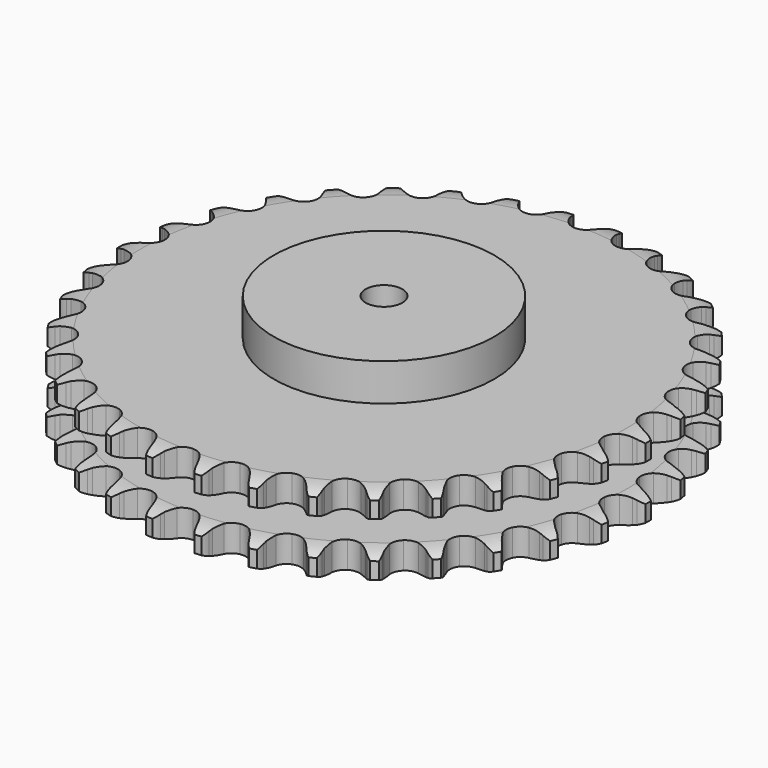
from build123d import *

# Parameters (mm, degrees)
PAD_DEPTH         = 54.6
SKETCH001_R       = 75
PAD001_DEPTH      = 80
SKETCH002_R       = 12.5
POCKET_DEPTH      = 0.001
POCKET_DEPTH_BACK = 80.001


with BuildPart() as part:
    # Sprocket → Pad (new body)
    with BuildSketch(Plane.XY):
        with BuildLine():
            ThreePointArc((-16.836108, 181.690536), (-13.971378, 178.673782), (-12.010947, 175.004424))
            Line((-12.010947, 175.004424), (-11.081591, 172.507029))
            ThreePointArc((-11.081591, 172.507029), (-9.612188, 169.282721), (-7.699154, 166.30017))
            ThreePointArc((-7.699154, 166.30017), (-4.305936, 163.460335), (0, 162.441754))
            ThreePointArc((0, 162.441754), (4.305936, 163.460335), (7.699154, 166.30017))
            ThreePointArc((7.699154, 166.30017), (9.612188, 169.282721), (11.081591, 172.507029))
            Line((11.081591, 172.507029), (12.010947, 175.004424))
            ThreePointArc((12.010947, 175.004424), (13.971378, 178.673782), (16.836108, 181.690536))
            ThreePointArc((16.836108, 181.690536), (19.097732, 178.198755), (20.350541, 174.231647))
            Line((20.350541, 174.231647), (20.805178, 171.606006))
            ThreePointArc((20.805178, 171.606006), (21.657096, 168.166596), (22.989515, 164.883309))
            ThreePointArc((22.989515, 164.883309), (25.803138, 161.468325), (29.848594, 159.675875))
            ThreePointArc((29.848594, 159.675875), (34.268377, 159.885898), (38.125637, 162.053878))
            Line((38.125637, 162.053878), (42.590989, 167.533533))
            ThreePointArc((42.590989, 167.533533), (43.246566, 168.693993), (43.963417, 169.817636))
            ThreePointArc((43.963417, 169.817636), (46.56471, 173.064287), (49.934989, 175.503282))
            ThreePointArc((49.934989, 175.503282), (51.516493, 171.655384), (52.019015, 167.52562))
            Line((52.019015, 167.52562), (51.983451, 164.861147))
            ThreePointArc((51.983451, 164.861147), (52.188873, 161.323759), (52.895303, 157.851545))
            ThreePointArc((52.895303, 157.851545), (55.033518, 153.977706), (58.68073, 151.472425))
            ThreePointArc((58.68073, 151.472425), (63.063849, 150.866739), (67.253798, 152.289035))
            Line((67.253798, 152.289035), (72.650002, 156.854882))
            ThreePointArc((72.650002, 156.854882), (73.50765, 157.875122), (74.418765, 158.847911))
            ThreePointArc((74.418765, 158.847911), (77.572337, 161.561296), (81.333395, 163.339475))
            ThreePointArc((81.333395, 163.339475), (82.18092, 159.266494), (81.916045, 155.114709))
            Line((81.916045, 155.114709), (81.39149, 152.502138))
            ThreePointArc((81.39149, 152.502138), (80.943422, 148.987235), (80.999805, 145.444336))
            ThreePointArc((80.999805, 145.444336), (82.389797, 141.243561), (85.514564, 138.110763))
            ThreePointArc((85.514564, 138.110763), (89.711758, 136.709994), (94.091711, 137.338172))
            Line((94.091711, 137.338172), (100.235007, 140.834727))
            ThreePointArc((100.235007, 140.834727), (101.26552, 141.680002), (102.339871, 142.468812))
            ThreePointArc((102.339871, 142.468812), (105.938331, 144.556528), (109.962089, 145.613338))
            ThreePointArc((109.962089, 145.613338), (110.046776, 141.453975), (109.023521, 137.421553))
            Line((109.023521, 137.421553), (108.02784, 134.949852))
            ThreePointArc((108.02784, 134.949852), (106.941539, 131.577129), (106.345957, 128.084195))
            ThreePointArc((106.345957, 128.084195), (106.94039, 123.699535), (109.436302, 120.045905))
            ThreePointArc((109.436302, 120.045905), (113.30464, 117.897755), (117.725443, 117.710422))
            Line((117.725443, 117.710422), (124.406628, 120.018614))
            ThreePointArc((124.406628, 120.018614), (125.574915, 120.66014), (126.775915, 121.238107))
            ThreePointArc((126.775915, 121.238107), (130.696722, 122.629062), (134.846156, 122.928514))
            ThreePointArc((134.846156, 122.928514), (134.16512, 118.82441), (132.418333, 115.04867))
            Line((132.418333, 115.04867), (130.985431, 112.802011))
            ThreePointArc((130.985431, 112.802011), (129.29789, 109.686323), (128.070624, 106.3623))
            ThreePointArc((128.070624, 106.3623), (127.849257, 101.94307), (129.631318, 97.893027))
            ThreePointArc((129.631318, 97.893027), (133.039069, 95.070648), (137.350177, 94.074185))
            Line((137.350177, 94.074185), (144.341732, 95.115411))
            ThreePointArc((144.341732, 95.115411), (145.608006, 95.531342), (146.894758, 95.878785))
            ThreePointArc((146.894758, 95.878785), (151.004393, 96.525609), (155.138199, 96.057506))
            ThreePointArc((155.138199, 96.057506), (153.714632, 92.148423), (151.303797, 88.757943))
            Line((151.303797, 88.757943), (149.48247, 86.812833))
            ThreePointArc((149.48247, 86.812833), (147.251156, 84.06028), (145.433999, 81.018364))
            ThreePointArc((145.433999, 81.018364), (144.40437, 76.715057), (145.411895, 72.40652))
            ThreePointArc((145.411895, 72.40652), (148.243012, 69.006025), (152.297615, 67.234364))
            Line((152.297615, 67.234364), (159.36145, 66.973167))
            ThreePointArc((159.36145, 66.973167), (160.682591, 67.149339), (162.011276, 67.254425))
            ThreePointArc((162.011276, 67.254425), (166.16979, 67.135093), (170.147197, 65.915375))
            ThreePointArc((170.147197, 65.915375), (168.029576, 62.334431), (165.036791, 59.444671))
            Line((165.036791, 59.444671), (162.889063, 57.867347))
            ThreePointArc((162.889063, 57.867347), (160.189961, 55.571665), (157.844794, 52.915445))
            ThreePointArc((157.844794, 52.915445), (156.041966, 48.874604), (156.240645, 44.454296))
            ThreePointArc((156.240645, 44.454296), (158.398717, 40.591484), (162.058741, 38.104958))
            Line((162.058741, 38.104958), (168.954306, 36.550232))
            ThreePointArc((168.954306, 36.550232), (170.285323, 36.480645), (171.610695, 36.339797))
            ThreePointArc((171.610695, 36.339797), (175.676475, 35.458372), (179.362036, 33.528575))
            ThreePointArc((179.362036, 33.528575), (176.622475, 30.397716), (173.149656, 28.107082))
            Line((173.149656, 28.107082), (170.748665, 26.951259))
            ThreePointArc((170.748665, 26.951259), (167.67369, 25.190623), (164.880374, 23.010554))
            ThreePointArc((164.880374, 23.010554), (162.36574, 19.369785), (161.748806, 14.988234))
            ThreePointArc((161.748806, 14.988234), (163.160343, 10.794649), (166.301151, 7.677933))
            Line((166.301151, 7.677933), (172.793625, 4.882622))
            ThreePointArc((172.793625, 4.882622), (174.089193, 4.569647), (175.366117, 4.187661))
            ThreePointArc((175.366117, 4.187661), (179.200707, 2.574158), (182.468916, 0))
            ThreePointArc((182.468916, 0), (179.200707, -2.574158), (175.366117, -4.187661))
            Line((175.366117, -4.187661), (172.793625, -4.882622))
            ThreePointArc((172.793625, -4.882622), (169.447491, -6.048254), (166.301151, -7.677933))
            ThreePointArc((166.301151, -7.677933), (163.160343, -10.794649), (161.748806, -14.988234))
            ThreePointArc((161.748806, -14.988234), (162.36574, -19.369785), (164.880374, -23.010554))
            Line((164.880374, -23.010554), (170.748665, -26.951259))
            ThreePointArc((170.748665, -26.951259), (171.964664, -27.496965), (173.149656, -28.107082))
            ThreePointArc((173.149656, -28.107082), (176.622475, -30.397716), (179.362036, -33.528575))
            ThreePointArc((179.362036, -33.528575), (175.676475, -35.458372), (171.610695, -36.339797))
            Line((171.610695, -36.339797), (168.954306, -36.550232))
            ThreePointArc((168.954306, -36.550232), (165.450962, -37.081166), (162.058741, -38.104958))
            ThreePointArc((162.058741, -38.104958), (158.398717, -40.591484), (156.240645, -44.454296))
            ThreePointArc((156.240645, -44.454296), (156.041966, -48.874604), (157.844794, -52.915445))
            Line((157.844794, -52.915445), (162.889063, -57.867347))
            ThreePointArc((162.889063, -57.867347), (163.984084, -58.627201), (165.036791, -59.444671))
            ThreePointArc((165.036791, -59.444671), (168.029576, -62.334431), (170.147197, -65.915375))
            ThreePointArc((170.147197, -65.915375), (166.16979, -67.135093), (162.011276, -67.254425))
            Line((162.011276, -67.254425), (159.36145, -66.973167))
            ThreePointArc((159.36145, -66.973167), (155.820198, -66.851323), (152.297615, -67.234364))
            ThreePointArc((152.297615, -67.234364), (148.243012, -69.006025), (145.411895, -72.40652))
            ThreePointArc((145.411895, -72.40652), (144.40437, -76.715057), (145.433999, -81.018364))
            Line((145.433999, -81.018364), (149.48247, -86.812833))
            ThreePointArc((149.48247, -86.812833), (150.419224, -87.760958), (151.303797, -88.757943))
            ThreePointArc((151.303797, -88.757943), (153.714632, -92.148423), (155.138199, -96.057506))
            ThreePointArc((155.138199, -96.057506), (151.004393, -96.525609), (146.894758, -95.878785))
            Line((146.894758, -95.878785), (144.341732, -95.115411))
            ThreePointArc((144.341732, -95.115411), (140.883165, -94.344939), (137.350177, -94.074185))
            ThreePointArc((137.350177, -94.074185), (133.039069, -95.070648), (129.631318, -97.893027))
            ThreePointArc((129.631318, -97.893027), (127.849257, -101.94307), (128.070624, -106.3623))
            Line((128.070624, -106.3623), (130.985431, -112.802011))
            ThreePointArc((130.985431, -112.802011), (131.732017, -113.906121), (132.418333, -115.04867))
            ThreePointArc((132.418333, -115.04867), (134.16512, -118.82441), (134.846156, -122.928514))
            ThreePointArc((134.846156, -122.928514), (130.696722, -122.629062), (126.775915, -121.238107))
            Line((126.775915, -121.238107), (124.406628, -120.018614))
            ThreePointArc((124.406628, -120.018614), (121.148524, -118.625751), (117.725443, -117.710422))
            ThreePointArc((117.725443, -117.710422), (113.30464, -117.897755), (109.436302, -120.045905))
            ThreePointArc((109.436302, -120.045905), (106.94039, -123.699535), (106.345957, -128.084195))
            Line((106.345957, -128.084195), (108.02784, -134.949852))
            ThreePointArc((108.02784, -134.949852), (108.558834, -136.172347), (109.023521, -137.421553))
            ThreePointArc((109.023521, -137.421553), (110.046776, -141.453975), (109.962089, -145.613338))
            ThreePointArc((109.962089, -145.613338), (105.938331, -144.556528), (102.339871, -142.468812))
            Line((102.339871, -142.468812), (100.235007, -140.834727))
            ThreePointArc((100.235007, -140.834727), (97.288316, -138.866905), (94.091711, -137.338172))
            ThreePointArc((94.091711, -137.338172), (89.711758, -136.709994), (85.514564, -138.110763))
            ThreePointArc((85.514564, -138.110763), (82.389797, -141.243561), (80.999805, -145.444336))
            Line((80.999805, -145.444336), (81.39149, -152.502138))
            ThreePointArc((81.39149, -152.502138), (81.688811, -153.801388), (81.916045, -155.114709))
            ThreePointArc((81.916045, -155.114709), (82.18092, -159.266494), (81.333395, -163.339475))
            ThreePointArc((81.333395, -163.339475), (77.572337, -161.561296), (74.418765, -158.847911))
            Line((74.418765, -158.847911), (72.650002, -156.854882))
            ThreePointArc((72.650002, -156.854882), (70.115071, -154.379113), (67.253798, -152.289035))
            ThreePointArc((67.253798, -152.289035), (63.063849, -150.866739), (58.68073, -151.472425))
            ThreePointArc((58.68073, -151.472425), (55.033518, -153.977706), (52.895303, -157.851545))
            Line((52.895303, -157.851545), (51.983451, -164.861147))
            ThreePointArc((51.983451, -164.861147), (52.036972, -166.192906), (52.019015, -167.52562))
            ThreePointArc((52.019015, -167.52562), (51.516493, -171.655384), (49.934989, -175.503282))
            ThreePointArc((49.934989, -175.503282), (46.56471, -173.064287), (43.963417, -169.817636))
            Line((43.963417, -169.817636), (42.590989, -167.533533))
            ThreePointArc((42.590989, -167.533533), (40.554141, -164.634126), (38.125637, -162.053878))
            ThreePointArc((38.125637, -162.053878), (34.268377, -159.885898), (29.848594, -159.675875))
            ThreePointArc((29.848594, -159.675875), (25.803138, -161.468325), (22.989515, -164.883309))
            Line((22.989515, -164.883309), (20.805178, -171.606006))
            ThreePointArc((20.805178, -171.606006), (20.613078, -172.924925), (20.350541, -174.231647))
            ThreePointArc((20.350541, -174.231647), (19.097732, -178.198755), (16.836108, -181.690536))
            ThreePointArc((16.836108, -181.690536), (13.971378, -178.673782), (12.010947, -175.004424))
            Line((12.010947, -175.004424), (11.081591, -172.507029))
            ThreePointArc((11.081591, -172.507029), (9.612188, -169.282721), (7.699154, -166.30017))
            ThreePointArc((7.699154, -166.30017), (4.305936, -163.460335), (0, -162.441754))
            ThreePointArc((0, -162.441754), (-4.305936, -163.460335), (-7.699154, -166.30017))
            Line((-7.699154, -166.30017), (-11.081591, -172.507029))
            ThreePointArc((-11.081591, -172.507029), (-11.512771, -173.768193), (-12.010947, -175.004424))
            ThreePointArc((-12.010947, -175.004424), (-13.971378, -178.673782), (-16.836108, -181.690536))
            ThreePointArc((-16.836108, -181.690536), (-19.097732, -178.198755), (-20.350541, -174.231647))
            Line((-20.350541, -174.231647), (-20.805178, -171.606006))
            ThreePointArc((-20.805178, -171.606006), (-21.657096, -168.166596), (-22.989515, -164.883309))
            ThreePointArc((-22.989515, -164.883309), (-25.803138, -161.468325), (-29.848594, -159.675875))
            ThreePointArc((-29.848594, -159.675875), (-34.268377, -159.885898), (-38.125637, -162.053878))
            Line((-38.125637, -162.053878), (-42.590989, -167.533533))
            ThreePointArc((-42.590989, -167.533533), (-43.246566, -168.693993), (-43.963417, -169.817636))
            ThreePointArc((-43.963417, -169.817636), (-46.56471, -173.064287), (-49.934989, -175.503282))
            ThreePointArc((-49.934989, -175.503282), (-51.516493, -171.655384), (-52.019015, -167.52562))
            Line((-52.019015, -167.52562), (-51.983451, -164.861147))
            ThreePointArc((-51.983451, -164.861147), (-52.188873, -161.323759), (-52.895303, -157.851545))
            ThreePointArc((-52.895303, -157.851545), (-55.033518, -153.977706), (-58.68073, -151.472425))
            ThreePointArc((-58.68073, -151.472425), (-63.063849, -150.866739), (-67.253798, -152.289035))
            Line((-67.253798, -152.289035), (-72.650002, -156.854882))
            ThreePointArc((-72.650002, -156.854882), (-73.50765, -157.875122), (-74.418765, -158.847911))
            ThreePointArc((-74.418765, -158.847911), (-77.572337, -161.561296), (-81.333395, -163.339475))
            ThreePointArc((-81.333395, -163.339475), (-82.18092, -159.266494), (-81.916045, -155.114709))
            Line((-81.916045, -155.114709), (-81.39149, -152.502138))
            ThreePointArc((-81.39149, -152.502138), (-80.943422, -148.987235), (-80.999805, -145.444336))
            ThreePointArc((-80.999805, -145.444336), (-82.389797, -141.243561), (-85.514564, -138.110763))
            ThreePointArc((-85.514564, -138.110763), (-89.711758, -136.709994), (-94.091711, -137.338172))
            Line((-94.091711, -137.338172), (-100.235007, -140.834727))
            ThreePointArc((-100.235007, -140.834727), (-101.26552, -141.680002), (-102.339871, -142.468812))
            ThreePointArc((-102.339871, -142.468812), (-105.938331, -144.556528), (-109.962089, -145.613338))
            ThreePointArc((-109.962089, -145.613338), (-110.046776, -141.453975), (-109.023521, -137.421553))
            Line((-109.023521, -137.421553), (-108.02784, -134.949852))
            ThreePointArc((-108.02784, -134.949852), (-106.941539, -131.577129), (-106.345957, -128.084195))
            ThreePointArc((-106.345957, -128.084195), (-106.94039, -123.699535), (-109.436302, -120.045905))
            ThreePointArc((-109.436302, -120.045905), (-113.30464, -117.897755), (-117.725443, -117.710422))
            Line((-117.725443, -117.710422), (-124.406628, -120.018614))
            ThreePointArc((-124.406628, -120.018614), (-125.574915, -120.66014), (-126.775915, -121.238107))
            ThreePointArc((-126.775915, -121.238107), (-130.696722, -122.629062), (-134.846156, -122.928514))
            ThreePointArc((-134.846156, -122.928514), (-134.16512, -118.82441), (-132.418333, -115.04867))
            Line((-132.418333, -115.04867), (-130.985431, -112.802011))
            ThreePointArc((-130.985431, -112.802011), (-129.29789, -109.686323), (-128.070624, -106.3623))
            ThreePointArc((-128.070624, -106.3623), (-127.849257, -101.94307), (-129.631318, -97.893027))
            ThreePointArc((-129.631318, -97.893027), (-133.039069, -95.070648), (-137.350177, -94.074185))
            Line((-137.350177, -94.074185), (-144.341732, -95.115411))
            ThreePointArc((-144.341732, -95.115411), (-145.608006, -95.531342), (-146.894758, -95.878785))
            ThreePointArc((-146.894758, -95.878785), (-151.004393, -96.525609), (-155.138199, -96.057506))
            ThreePointArc((-155.138199, -96.057506), (-153.714632, -92.148423), (-151.303797, -88.757943))
            Line((-151.303797, -88.757943), (-149.48247, -86.812833))
            ThreePointArc((-149.48247, -86.812833), (-147.251156, -84.06028), (-145.433999, -81.018364))
            ThreePointArc((-145.433999, -81.018364), (-144.40437, -76.715057), (-145.411895, -72.40652))
            ThreePointArc((-145.411895, -72.40652), (-148.243012, -69.006025), (-152.297615, -67.234364))
            Line((-152.297615, -67.234364), (-159.36145, -66.973167))
            ThreePointArc((-159.36145, -66.973167), (-160.682591, -67.149339), (-162.011276, -67.254425))
            ThreePointArc((-162.011276, -67.254425), (-166.16979, -67.135093), (-170.147197, -65.915375))
            ThreePointArc((-170.147197, -65.915375), (-168.029576, -62.334431), (-165.036791, -59.444671))
            Line((-165.036791, -59.444671), (-162.889063, -57.867347))
            ThreePointArc((-162.889063, -57.867347), (-160.189961, -55.571665), (-157.844794, -52.915445))
            ThreePointArc((-157.844794, -52.915445), (-156.041966, -48.874604), (-156.240645, -44.454296))
            ThreePointArc((-156.240645, -44.454296), (-158.398717, -40.591484), (-162.058741, -38.104958))
            Line((-162.058741, -38.104958), (-168.954306, -36.550232))
            ThreePointArc((-168.954306, -36.550232), (-170.285323, -36.480645), (-171.610695, -36.339797))
            ThreePointArc((-171.610695, -36.339797), (-175.676475, -35.458372), (-179.362036, -33.528575))
            ThreePointArc((-179.362036, -33.528575), (-176.622475, -30.397716), (-173.149656, -28.107082))
            Line((-173.149656, -28.107082), (-170.748665, -26.951259))
            ThreePointArc((-170.748665, -26.951259), (-167.67369, -25.190623), (-164.880374, -23.010554))
            ThreePointArc((-164.880374, -23.010554), (-162.36574, -19.369785), (-161.748806, -14.988234))
            ThreePointArc((-161.748806, -14.988234), (-163.160343, -10.794649), (-166.301151, -7.677933))
            Line((-166.301151, -7.677933), (-172.793625, -4.882622))
            ThreePointArc((-172.793625, -4.882622), (-174.089193, -4.569647), (-175.366117, -4.187661))
            ThreePointArc((-175.366117, -4.187661), (-179.200707, -2.574158), (-182.468916, 0))
            ThreePointArc((-182.468916, 0), (-179.200707, 2.574158), (-175.366117, 4.187661))
            Line((-175.366117, 4.187661), (-172.793625, 4.882622))
            ThreePointArc((-172.793625, 4.882622), (-169.447491, 6.048254), (-166.301151, 7.677933))
            ThreePointArc((-166.301151, 7.677933), (-163.160343, 10.794649), (-161.748806, 14.988234))
            ThreePointArc((-161.748806, 14.988234), (-162.36574, 19.369785), (-164.880374, 23.010554))
            Line((-164.880374, 23.010554), (-170.748665, 26.951259))
            ThreePointArc((-170.748665, 26.951259), (-171.964664, 27.496965), (-173.149656, 28.107082))
            ThreePointArc((-173.149656, 28.107082), (-176.622475, 30.397716), (-179.362036, 33.528575))
            ThreePointArc((-179.362036, 33.528575), (-175.676475, 35.458372), (-171.610695, 36.339797))
            Line((-171.610695, 36.339797), (-168.954306, 36.550232))
            ThreePointArc((-168.954306, 36.550232), (-165.450962, 37.081166), (-162.058741, 38.104958))
            ThreePointArc((-162.058741, 38.104958), (-158.398717, 40.591484), (-156.240645, 44.454296))
            ThreePointArc((-156.240645, 44.454296), (-156.041966, 48.874604), (-157.844794, 52.915445))
            Line((-157.844794, 52.915445), (-162.889063, 57.867347))
            ThreePointArc((-162.889063, 57.867347), (-163.984084, 58.627201), (-165.036791, 59.444671))
            ThreePointArc((-165.036791, 59.444671), (-168.029576, 62.334431), (-170.147197, 65.915375))
            ThreePointArc((-170.147197, 65.915375), (-166.16979, 67.135093), (-162.011276, 67.254425))
            Line((-162.011276, 67.254425), (-159.36145, 66.973167))
            ThreePointArc((-159.36145, 66.973167), (-155.820198, 66.851323), (-152.297615, 67.234364))
            ThreePointArc((-152.297615, 67.234364), (-148.243012, 69.006025), (-145.411895, 72.40652))
            ThreePointArc((-145.411895, 72.40652), (-144.40437, 76.715057), (-145.433999, 81.018364))
            Line((-145.433999, 81.018364), (-149.48247, 86.812833))
            ThreePointArc((-149.48247, 86.812833), (-150.419224, 87.760958), (-151.303797, 88.757943))
            ThreePointArc((-151.303797, 88.757943), (-153.714632, 92.148423), (-155.138199, 96.057506))
            ThreePointArc((-155.138199, 96.057506), (-151.004393, 96.525609), (-146.894758, 95.878785))
            Line((-146.894758, 95.878785), (-144.341732, 95.115411))
            ThreePointArc((-144.341732, 95.115411), (-140.883165, 94.344939), (-137.350177, 94.074185))
            ThreePointArc((-137.350177, 94.074185), (-133.039069, 95.070648), (-129.631318, 97.893027))
            ThreePointArc((-129.631318, 97.893027), (-127.849257, 101.94307), (-128.070624, 106.3623))
            Line((-128.070624, 106.3623), (-130.985431, 112.802011))
            ThreePointArc((-130.985431, 112.802011), (-131.732017, 113.906121), (-132.418333, 115.04867))
            ThreePointArc((-132.418333, 115.04867), (-134.16512, 118.82441), (-134.846156, 122.928514))
            ThreePointArc((-134.846156, 122.928514), (-130.696722, 122.629062), (-126.775915, 121.238107))
            Line((-126.775915, 121.238107), (-124.406628, 120.018614))
            ThreePointArc((-124.406628, 120.018614), (-121.148524, 118.625751), (-117.725443, 117.710422))
            ThreePointArc((-117.725443, 117.710422), (-113.30464, 117.897755), (-109.436302, 120.045905))
            ThreePointArc((-109.436302, 120.045905), (-106.94039, 123.699535), (-106.345957, 128.084195))
            Line((-106.345957, 128.084195), (-108.02784, 134.949852))
            ThreePointArc((-108.02784, 134.949852), (-108.558834, 136.172347), (-109.023521, 137.421553))
            ThreePointArc((-109.023521, 137.421553), (-110.046776, 141.453975), (-109.962089, 145.613338))
            ThreePointArc((-109.962089, 145.613338), (-105.938331, 144.556528), (-102.339871, 142.468812))
            Line((-102.339871, 142.468812), (-100.235007, 140.834727))
            ThreePointArc((-100.235007, 140.834727), (-97.288316, 138.866905), (-94.091711, 137.338172))
            ThreePointArc((-94.091711, 137.338172), (-89.711758, 136.709994), (-85.514564, 138.110763))
            ThreePointArc((-85.514564, 138.110763), (-82.389797, 141.243561), (-80.999805, 145.444336))
            Line((-80.999805, 145.444336), (-81.39149, 152.502138))
            ThreePointArc((-81.39149, 152.502138), (-81.688811, 153.801388), (-81.916045, 155.114709))
            ThreePointArc((-81.916045, 155.114709), (-82.18092, 159.266494), (-81.333395, 163.339475))
            ThreePointArc((-81.333395, 163.339475), (-77.572337, 161.561296), (-74.418765, 158.847911))
            Line((-74.418765, 158.847911), (-72.650002, 156.854882))
            ThreePointArc((-72.650002, 156.854882), (-70.115071, 154.379113), (-67.253798, 152.289035))
            ThreePointArc((-67.253798, 152.289035), (-63.063849, 150.866739), (-58.68073, 151.472425))
            ThreePointArc((-58.68073, 151.472425), (-55.033518, 153.977706), (-52.895303, 157.851545))
            Line((-52.895303, 157.851545), (-51.983451, 164.861147))
            ThreePointArc((-51.983451, 164.861147), (-52.036972, 166.192906), (-52.019015, 167.52562))
            ThreePointArc((-52.019015, 167.52562), (-51.516493, 171.655384), (-49.934989, 175.503282))
            ThreePointArc((-49.934989, 175.503282), (-46.56471, 173.064287), (-43.963417, 169.817636))
            Line((-43.963417, 169.817636), (-42.590989, 167.533533))
            ThreePointArc((-42.590989, 167.533533), (-40.554141, 164.634126), (-38.125637, 162.053878))
            ThreePointArc((-38.125637, 162.053878), (-34.268377, 159.885898), (-29.848594, 159.675875))
            ThreePointArc((-29.848594, 159.675875), (-25.803138, 161.468325), (-22.989515, 164.883309))
            Line((-22.989515, 164.883309), (-20.805178, 171.606006))
            ThreePointArc((-20.805178, 171.606006), (-20.613078, 172.924925), (-20.350541, 174.231647))
            ThreePointArc((-20.350541, 174.231647), (-19.097732, 178.198755), (-16.836108, 181.690536))
        make_face()
    extrude(amount=PAD_DEPTH)

    # Sketch → Groove (revolve, cut)
    with BuildSketch(Plane.XZ):
        with BuildLine():
            ThreePointArc((165.098368, 0), (172.581683, 0.887302), (179.65, 3.5))
            Line((179.65, 3.5), (179.65, 14.7))
            ThreePointArc((179.65, 14.7), (172.581683, 17.312698), (165.098368, 18.2))
            Line((75, 18.2), (165.098368, 18.2))
            Line((75, 36.4), (75, 18.2))
            Line((165.098368, 36.4), (75, 36.4))
            ThreePointArc((165.098368, 36.4), (172.581683, 37.287302), (179.65, 39.9))
            Line((179.65, 39.9), (179.65, 51.1))
            ThreePointArc((179.65, 51.1), (172.581683, 53.712698), (165.098368, 54.6))
            Line((165.098368, 54.6), (189.65, 54.6))
            Line((189.65, 54.6), (189.65, 0))
            Line((165.098368, 0), (189.65, 0))
        make_face()
    revolve(axis=Axis((0, 0, 0), (0, 0, 1)), mode=Mode.SUBTRACT)

    # Sketch001 → Pad001 (join)
    with BuildSketch(Plane.XY):
        Circle(SKETCH001_R)
    extrude(amount=PAD001_DEPTH)

    # Sketch002 → Pocket (cut, two sides)
    with BuildSketch(Plane.XY) as pocket_sk:
        Circle(SKETCH002_R)
    extrude(amount=-POCKET_DEPTH, mode=Mode.SUBTRACT)
    extrude(pocket_sk.sketch, amount=POCKET_DEPTH_BACK, mode=Mode.SUBTRACT)


solid = part.part
